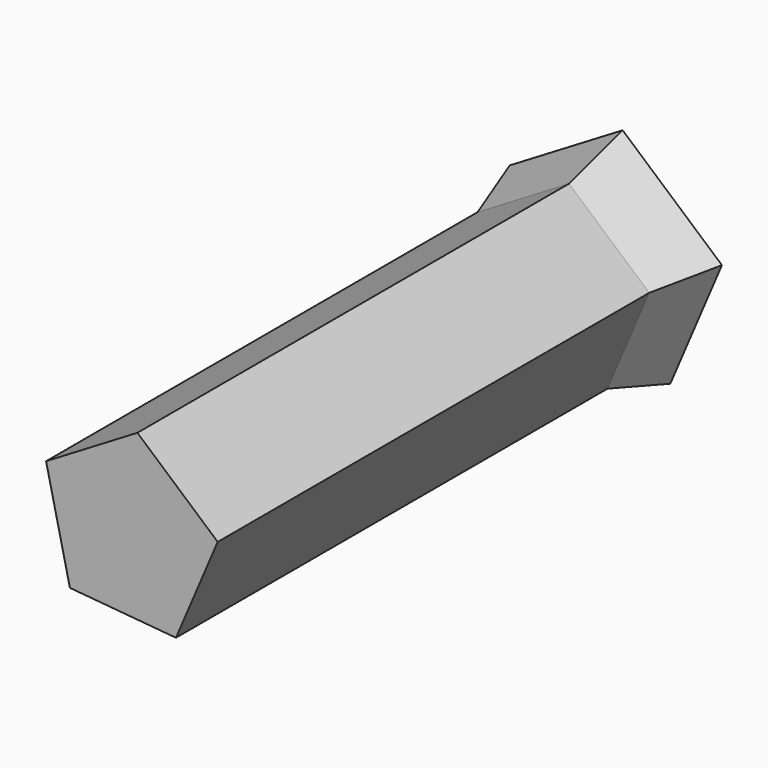
from build123d import *

# Parameters (mm, degrees)
F1_DEPTH = 150
F2_DEPTH = 18
F2_TAPER = -15


with BuildPart() as f1:
    # F0 (on Front) → F1 (new body)
    with BuildSketch(Plane.XZ):
        Polygon((34.7237776512, 17.161470202), (12.402158686, 36.6149738367), (-12.9969823127, 21.3973158888), (-6.3728957698, -7.4612175868), (23.1201558568, -10.0791141923), align=None)
    extrude(amount=F1_DEPTH)

    # F1_face (on face) → F2 (join)
    with BuildSketch(Plane(origin=(10.1752428223, 0, 11.5266856297), x_dir=(1, 0, 0), z_dir=(0, 1, 0))):
        Polygon((12.9449130346, 21.605799822), (-16.5481385921, 18.9879032165), (-23.172225135, -9.8706302592), (2.2269158637, -25.088288207), (24.5485348289, -5.6347845723), align=None)
    extrude(amount=F2_DEPTH, taper=F2_TAPER)


solid = f1.part
